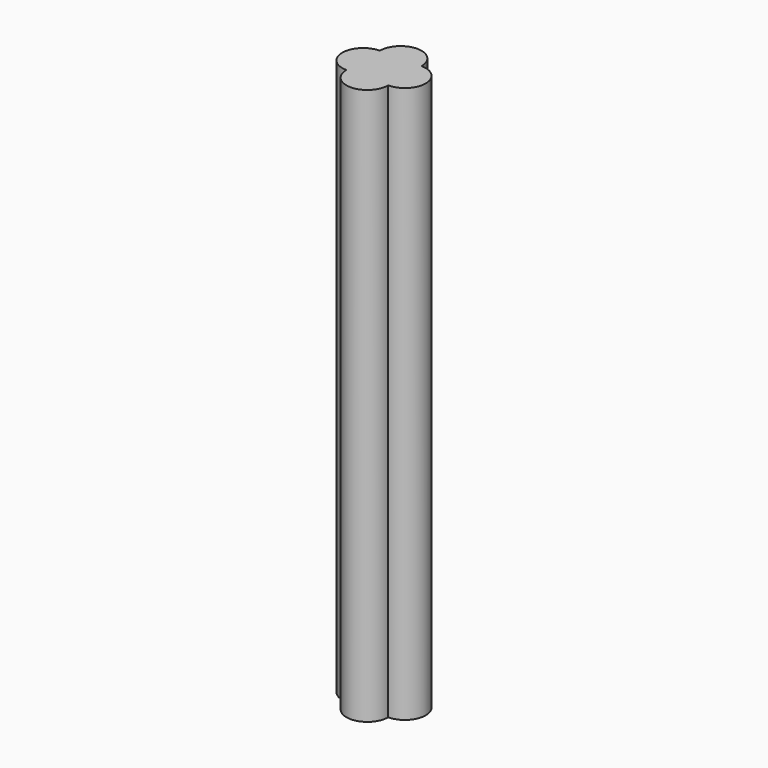
from build123d import *

# Parameters (mm, degrees)
F0_W     = 3.81
F0_H     = 3.81
F1_DEPTH = 50.8


with BuildPart() as f1:
    # F0 (on Top) → F1 (new body)
    with BuildSketch(Plane.XY):
        with BuildLine():
            ThreePointArc((2.148748, 4.612105), (0.243748, 6.517105), (-1.661252, 4.612105))
            Line((-1.661252, 4.612105), (2.148748, 4.612105))
        make_face()
        with BuildLine():
            Line((2.148748, 0.802105), (-1.661252, 0.802105))
            ThreePointArc((-1.661252, 0.802105), (0.243748, -1.102895), (2.148748, 0.802105))
        make_face()
        with BuildLine():
            Line((-1.661252, 0.802105), (-1.661252, 4.612105))
            ThreePointArc((-1.661252, 4.612105), (-3.566252, 2.707105), (-1.661252, 0.802105))
        make_face()
        with Locations((0.243748, 2.707105)):
            Rectangle(F0_W, F0_H)
        with BuildLine():
            ThreePointArc((2.148748, 0.802105), (4.053748, 2.707105), (2.148748, 4.612105))
            Line((2.148748, 4.612105), (2.148748, 0.802105))
        make_face()
    extrude(amount=F1_DEPTH)


solid = f1.part
